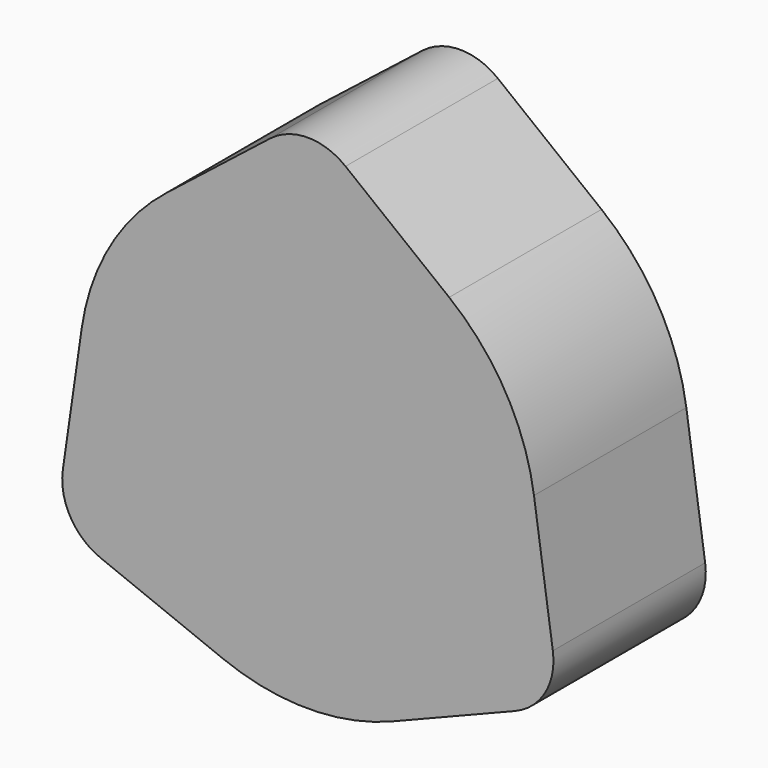
from build123d import *

# Parameters (mm, degrees)
F0_R     = 28
F1_DEPTH = 25


with BuildPart() as f1:
    # F0 (on Front) → F1 (new body)
    with BuildSketch(Plane.XZ):
        with BuildLine():
            Line((-27.2179412618, -21.4285714286), (-11.1346123344, -27.8571428571))
            ThreePointArc((-11.1346123344, -27.8571428571), (0, -30), (11.1346123344, -27.8571428571))
            Line((11.1346123344, -27.8571428571), (27.2179412618, -21.4285714286))
            ThreePointArc((27.2179412618, -21.4285714286), (31.1769145362, -18), (32.1666578549, -12.8571428571))
            Line((32.1666578549, -12.8571428571), (29.6922995583, 4.2857142857))
            ThreePointArc((29.6922995583, 4.2857142857), (25.9807621135, 15), (18.557687224, 23.5714285714))
            Line((18.557687224, 23.5714285714), (4.9487165931, 34.2857142857))
            ThreePointArc((4.9487165931, 34.2857142857), (0, 36), (-4.9487165931, 34.2857142857))
            Line((-4.9487165931, 34.2857142857), (-18.557687224, 23.5714285714))
            ThreePointArc((-18.557687224, 23.5714285714), (-25.9807621135, 15), (-29.6922995583, 4.2857142857))
            Line((-29.6922995583, 4.2857142857), (-32.1666578549, -12.8571428571))
            ThreePointArc((-32.1666578549, -12.8571428571), (-31.1769145362, -18), (-27.2179412618, -21.4285714286))
        make_face()
        Circle(F0_R, mode=Mode.SUBTRACT)
        Circle(F0_R)
    extrude(amount=F1_DEPTH)


solid = f1.part
